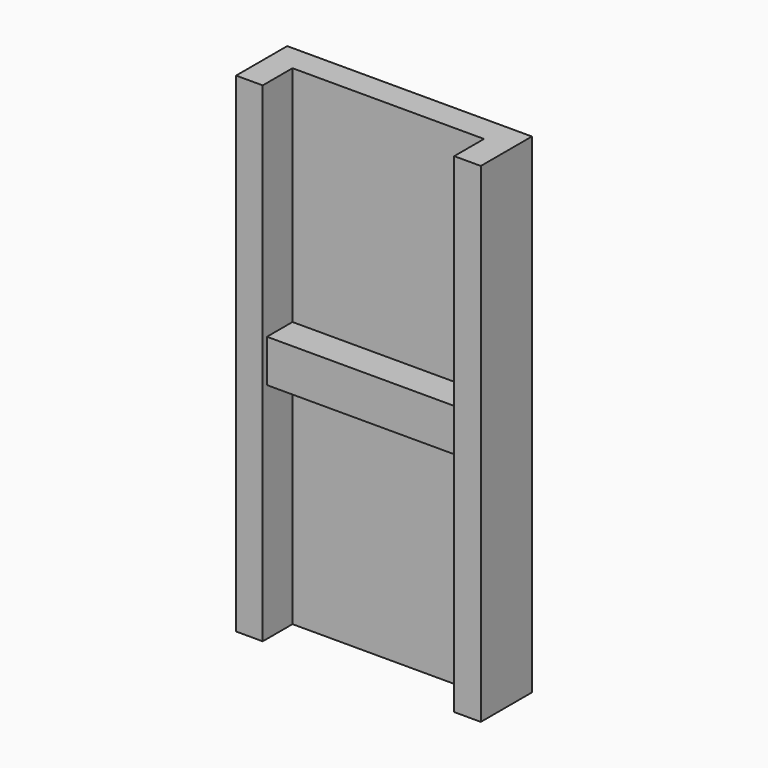
from build123d import *

# Parameters (mm, degrees)
F0_W     = 23
F0_H     = 60
F1_DEPTH = 6
F2_T     = -2.5
F3_W     = 23
F3_H     = 6
F4_DEPTH = 7
F5_W     = 23
F5_H     = 6
F6_DEPTH = 7
F7_W     = 18
F7_H     = 4
F8_DEPTH = 3


with BuildPart() as f1:
    # F0 (on Front) → F1 (new body)
    with BuildSketch(Plane.XZ):
        Rectangle(F0_W, F0_H)
    extrude(amount=F1_DEPTH)

    # F2
    f2_openings = [f1.faces().sort_by_distance(p)[0] for p in [
        (0, -6, 0),
    ]]
    offset(amount=F2_T, openings=f2_openings)

    # F3 (on face) → F4 (cut)
    with BuildSketch(Plane(origin=(0, 0, -30), x_dir=(1, 0, 0), z_dir=(0, 0, -1))):
        with Locations((0, 3)):
            Rectangle(F3_W, F3_H)
    extrude(amount=-F4_DEPTH, mode=Mode.SUBTRACT)

    # F5 (on face) → F6 (cut)
    with BuildSketch(Plane.XY.offset(30)):
        with Locations((0, -3)):
            Rectangle(F5_W, F5_H)
    extrude(amount=-F6_DEPTH, mode=Mode.SUBTRACT)

    # F7 (on face) → F8 (join)
    with BuildSketch(Plane.XZ.offset(2.5)):
        Rectangle(F7_W, F7_H)
    extrude(amount=F8_DEPTH)


solid = f1.part
